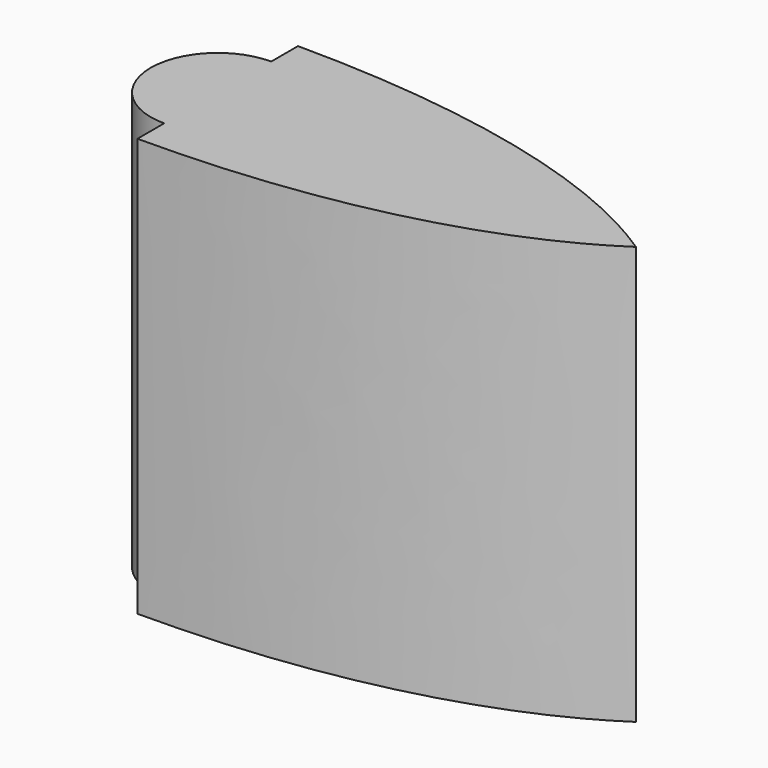
from build123d import *

# Parameters (mm, degrees)
F1_DEPTH = 25


with BuildPart() as f1:
    # F0 (on Top) → F1 (new body)
    with BuildSketch(Plane.XY):
        with BuildLine():
            Line((0, 6), (0, 4))
            ThreePointArc((0, 4), (-4, 0), (0, -4))
            Line((0, -4), (0, -6))
            add(Edge.make_bspline(
                [(0, -6), (10, -6), (19, -4), (25, 0)],
                knots=[0, 0, 0, 0, 25.70992, 25.70992, 25.70992, 25.70992], degree=3))
            add(Edge.make_bspline(
                [(0, 6), (10, 6), (19, 4), (25, 0)],
                knots=[0, 0, 0, 0, 25.70992, 25.70992, 25.70992, 25.70992], degree=3))
        make_face()
    extrude(amount=F1_DEPTH)


solid = f1.part
